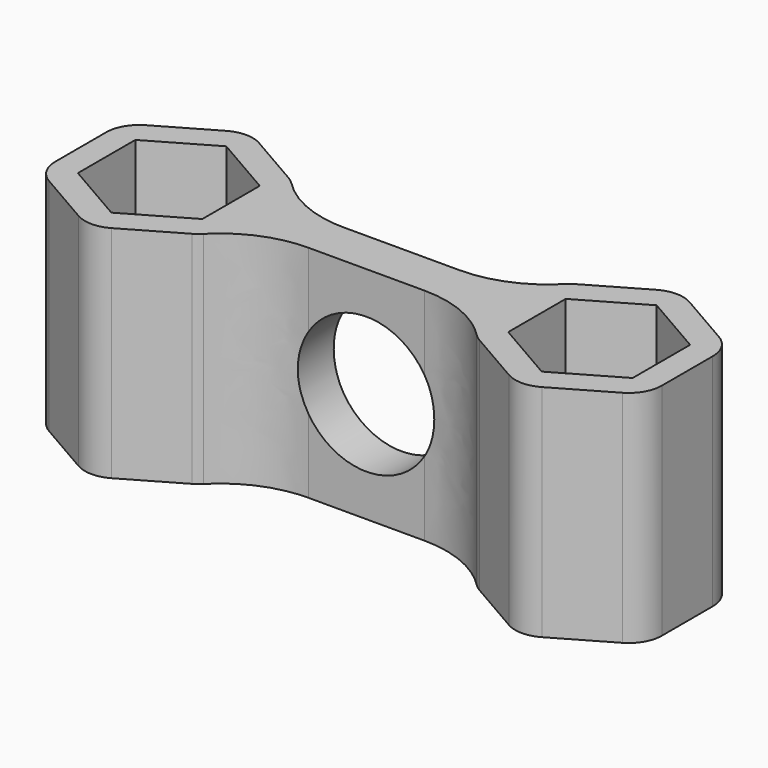
from build123d import *

# Parameters (mm, degrees)
F1_DEPTH = 10
F2_R     = 1.5
F4_R     = 5
F3_R     = 3.1
F5_DEPTH = 2.5


with BuildPart() as f1:
    # F0 (on Top) → F1 (new body)
    with BuildSketch(Plane.XY):
        Polygon((0, 1), (-5.773, 1), (-5.773, -1), (0, -1), (5.773, -1), (5.773, 1), align=None)
        Polygon((-5.773, 1), (-5.773, 2.3094010768), (-9.773, 4.6188021535), (-13.773, 2.3094010768), (-13.773, -2.3094010768), (-9.773, -4.6188021535), (-5.773, -2.3094010768), (-5.773, -1), align=None)
        Polygon((-9.773, 3.2620290209), (-6.948, 1.6310145105), (-6.948, -1.6310145105), (-9.773, -3.2620290209), (-12.598, -1.6310145105), (-12.598, 1.6310145105), align=None, mode=Mode.SUBTRACT)
        Polygon((5.773, 2.3094010768), (5.773, 1), (5.773, -1), (5.773, -2.3094010768), (9.773, -4.6188021535), (13.773, -2.3094010768), (13.773, 2.3094010768), (9.773, 4.6188021535), align=None)
        Polygon((6.948, 1.6310145105), (9.773, 3.2620290209), (12.598, 1.6310145105), (12.598, -1.6310145105), (9.773, -3.2620290209), (6.948, -1.6310145105), align=None, mode=Mode.SUBTRACT)
    extrude(amount=F1_DEPTH)

    # F2
    f2_edges = [f1.edges().sort_by_distance(p)[0] for p in [
        (-9.773, -4.618802, 5),
        (-13.773, -2.309401, 5),
        (-13.773, 2.309401, 5),
        (-9.773, 4.618802, 5),
        (-5.773, 2.309401, 5),
        (-5.773, -2.309401, 5),
        (5.773, 2.309401, 5),
        (9.773, 4.618802, 5),
        (13.773, 2.309401, 5),
        (13.773, -2.309401, 5),
        (9.773, -4.618802, 5),
        (5.773, -2.309401, 5),
    ]]
    fillet(f2_edges, radius=F2_R)

    # F4
    f4_edges = [f1.edges().sort_by_distance(p)[0] for p in [
        (-5.773, -1, 5),
        (-5.773, 1, 5),
        (5.773, 1, 5),
        (5.773, -1, 5),
    ]]
    fillet(f4_edges, radius=F4_R)

    # F3 (on face) → F5 (cut, symmetric)
    with BuildSketch(Plane.XZ.offset(1)):
        with Locations((0, 5)):
            Circle(F3_R)
    extrude(amount=F5_DEPTH, both=True, mode=Mode.SUBTRACT)


solid = f1.part
